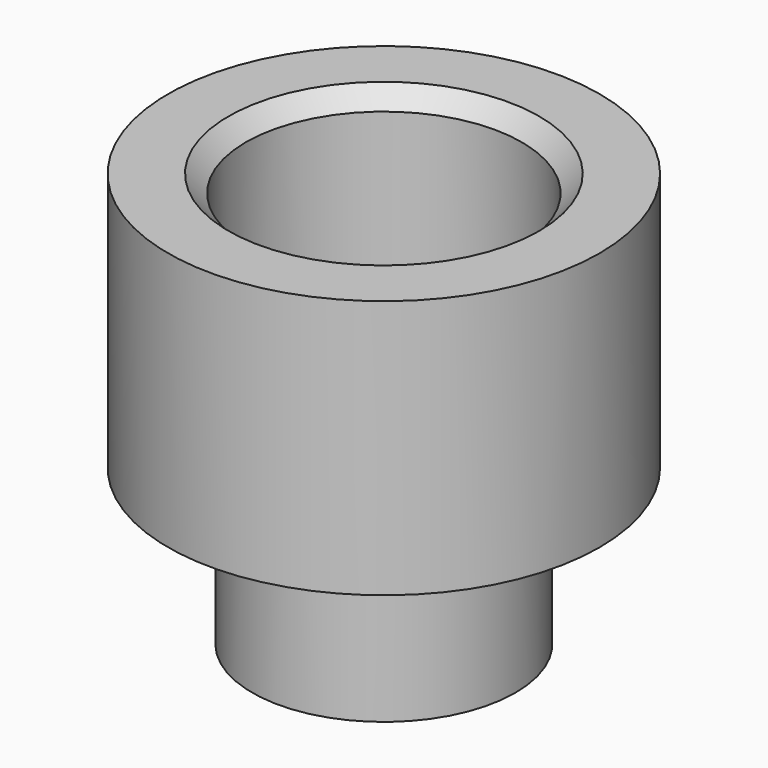
from build123d import *

# Parameters (mm, degrees)
SKETCH_R     = 3.05
PAD_DEPTH    = 3.6
SKETCH001_R  = 5
PAD001_DEPTH = 6
SKETCH002_R  = 3.2
POCKET_DEPTH = 4
CHAMFER_SIZE = 0.4


with BuildPart() as part:
    # Sketch → Pad (new body)
    with BuildSketch(Plane.XY):
        Circle(SKETCH_R)
    extrude(amount=PAD_DEPTH)

    # Sketch001 → Pad001 (new body)
    with BuildSketch(Plane.XY.offset(3.6)):
        Circle(SKETCH001_R)
    extrude(amount=PAD001_DEPTH)

    # Sketch002 → Pocket (cut)
    with BuildSketch(Plane.XY.offset(9.6)):
        Circle(SKETCH002_R)
    extrude(amount=-POCKET_DEPTH, mode=Mode.SUBTRACT)

    # Chamfer
    chamfer_edges = [part.edges().sort_by_distance(p)[0] for p in [
        (-3.2, 0, 9.6),
    ]]
    chamfer(chamfer_edges, length=CHAMFER_SIZE)


solid = part.part
